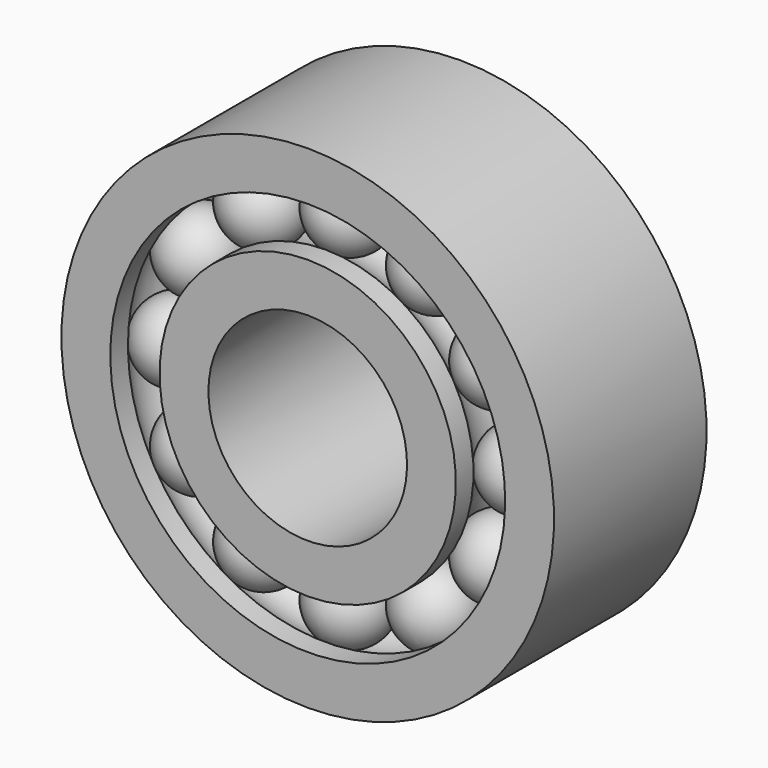
from build123d import *

# Parameters (mm, degrees)
F4_COUNT = 12
F4_ANGLE = 330


with BuildPart() as f2:
    # F1 (on Right) → F2 (revolve)
    with BuildSketch(Plane.YZ):
        with BuildLine():
            Line((-261.81481, 552.45), (-7.81481, 552.45))
            ThreePointArc((-7.81481, 552.45), (-134.81481, 679.45), (-261.81481, 552.45))
        make_face()
        with BuildLine():
            Line((7.81481, 552.45), (261.81481, 552.45))
            ThreePointArc((261.81481, 552.45), (134.81481, 679.45), (7.81481, 552.45))
        make_face()
    revolve(axis=Axis((0, -134.81481, 552.45), (0, 1, 0)))


with BuildPart() as f3:
    # F0 (on Right) → F3 (revolve)
    with BuildSketch(Plane.YZ):
        with BuildLine():
            Line((-304.8, 787.4), (-304.8, 631.19))
            Line((-304.8, 631.19), (-234.45924, 631.19))
            ThreePointArc((-234.45924, 631.19), (-134.81481, 679.45), (-35.17038, 631.19))
            Line((-35.17038, 631.19), (35.17038, 631.19))
            ThreePointArc((35.17038, 631.19), (134.81481, 679.45), (234.45924, 631.19))
            Line((234.45924, 631.19), (304.8, 631.19))
            Line((304.8, 631.19), (304.8, 787.4))
            Line((304.8, 787.4), (-304.8, 787.4))
        make_face()
        with BuildLine():
            Line((-234.45924, 473.71), (-304.8, 473.71))
            Line((-304.8, 473.71), (-304.8, 317.5))
            Line((-304.8, 317.5), (304.8, 317.5))
            Line((304.8, 317.5), (304.8, 473.71))
            Line((304.8, 473.71), (234.45924, 473.71))
            ThreePointArc((234.45924, 473.71), (134.81481, 425.45), (35.17038, 473.71))
            Line((35.17038, 473.71), (-35.17038, 473.71))
            ThreePointArc((-35.17038, 473.71), (-134.81481, 425.45), (-234.45924, 473.71))
        make_face()
    revolve(axis=Axis((0, 19.417995, 0), (0, 1, 0)))


with BuildPart() as f4_1:
    # F4: instance of F2
    add(f2.part.rotate(Axis((0, 19.417995, 0), (0, 1, 0)), 1 * F4_ANGLE / (F4_COUNT - 1)))


with BuildPart() as f4_2:
    # F4: instance of F2
    add(f2.part.rotate(Axis((0, 19.417995, 0), (0, 1, 0)), 2 * F4_ANGLE / (F4_COUNT - 1)))


with BuildPart() as f4_3:
    # F4: instance of F2
    add(f2.part.rotate(Axis((0, 19.417995, 0), (0, 1, 0)), 3 * F4_ANGLE / (F4_COUNT - 1)))


with BuildPart() as f4_4:
    # F4: instance of F2
    add(f2.part.rotate(Axis((0, 19.417995, 0), (0, 1, 0)), 4 * F4_ANGLE / (F4_COUNT - 1)))


with BuildPart() as f4_5:
    # F4: instance of F2
    add(f2.part.rotate(Axis((0, 19.417995, 0), (0, 1, 0)), 5 * F4_ANGLE / (F4_COUNT - 1)))


with BuildPart() as f4_6:
    # F4: instance of F2
    add(f2.part.rotate(Axis((0, 19.417995, 0), (0, 1, 0)), 6 * F4_ANGLE / (F4_COUNT - 1)))


with BuildPart() as f4_7:
    # F4: instance of F2
    add(f2.part.rotate(Axis((0, 19.417995, 0), (0, 1, 0)), 7 * F4_ANGLE / (F4_COUNT - 1)))


with BuildPart() as f4_8:
    # F4: instance of F2
    add(f2.part.rotate(Axis((0, 19.417995, 0), (0, 1, 0)), 8 * F4_ANGLE / (F4_COUNT - 1)))


with BuildPart() as f4_9:
    # F4: instance of F2
    add(f2.part.rotate(Axis((0, 19.417995, 0), (0, 1, 0)), 9 * F4_ANGLE / (F4_COUNT - 1)))


with BuildPart() as f4_10:
    # F4: instance of F2
    add(f2.part.rotate(Axis((0, 19.417995, 0), (0, 1, 0)), 10 * F4_ANGLE / (F4_COUNT - 1)))


with BuildPart() as f4_11:
    # F4: instance of F2
    add(f2.part.rotate(Axis((0, 19.417995, 0), (0, 1, 0)), 11 * F4_ANGLE / (F4_COUNT - 1)))


solid = Compound([f2.part, f3.part, f4_1.part, f4_2.part, f4_3.part, f4_4.part, f4_5.part, f4_6.part, f4_7.part, f4_8.part, f4_9.part, f4_10.part, f4_11.part])
